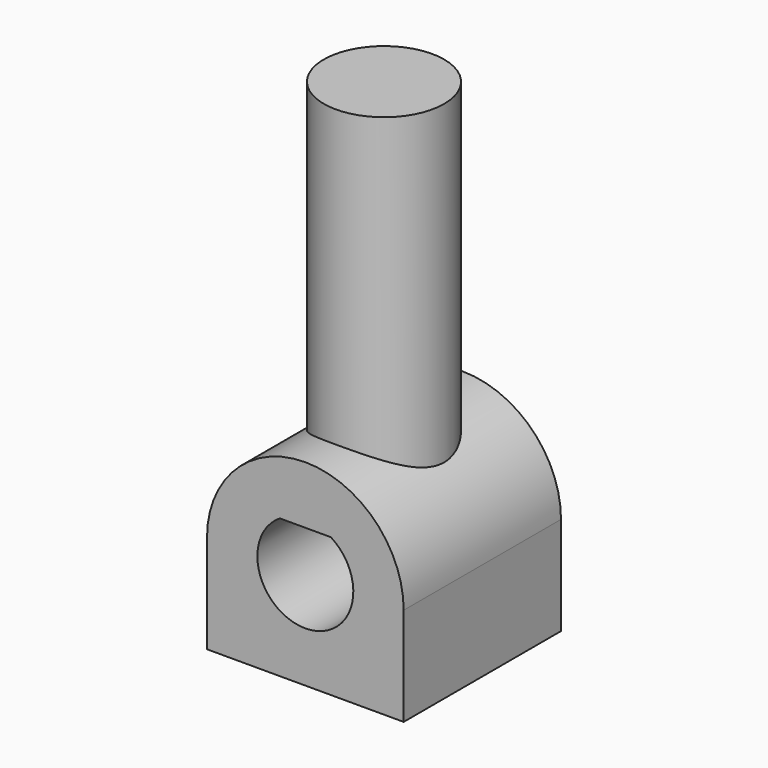
from build123d import *

# Parameters (mm, degrees)
PAD015_DEPTH    = 12.7
SKETCH033_R     = 3.8862
PAD016_DEPTH    = 25.4
POCKET016_DEPTH = 12.701


with BuildPart() as part:
    # Sketch032 → Pad015 (new body)
    with BuildSketch(Plane.XZ):
        with BuildLine():
            ThreePointArc((6.35, 0), (0, 6.35), (-6.35, 0))
            Line((-6.35, 0), (-6.35, -6.35))
            Line((-6.35, -6.35), (6.35, -6.35))
            Line((6.35, -6.35), (6.35, 0))
        make_face()
    extrude(amount=PAD015_DEPTH)

    # Sketch033 (on DatumPlane) → Pad016 (join)
    with BuildSketch(Plane(origin=(0, 0, 0), x_dir=(1, 0, 0), z_dir=(0, 0, -1))):
        with Locations((0, 6.35)):
            Circle(SKETCH033_R)
    extrude(amount=-PAD016_DEPTH)

    # Sketch034 (on Face4 of Pad016) → Pocket016 (cut, through all)
    with BuildSketch(Plane.XZ.offset(12.7)):
        with BuildLine():
            ThreePointArc((-1.651, 2.622358), (0, -3.0988), (1.651, 2.622358))
            Line((-1.651, 2.622358), (1.651, 2.622358))
        make_face()
    extrude(amount=-POCKET016_DEPTH, mode=Mode.SUBTRACT)


solid = part.part
